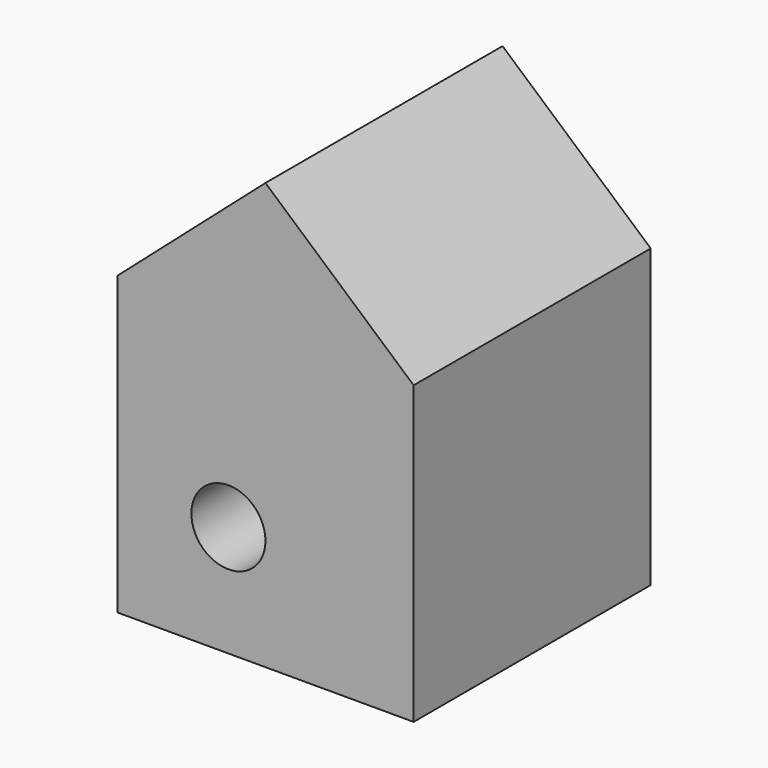
from build123d import *

# Parameters (mm, degrees)
F0_W     = 50.8
F0_H     = 50.8
F0_R     = 6.35
F1_DEPTH = 50.8


with BuildPart() as f1:
    # F0 (on Front) → F1 (new body)
    with BuildSketch(Plane.XZ):
        Rectangle(F0_W, F0_H)
        with Locations((-6.35, -6.35)):
            Circle(F0_R, mode=Mode.SUBTRACT)
        Polygon((0, 47.672484), (-25.4, 25.4), (25.4, 25.4), align=None)
    extrude(amount=F1_DEPTH)


solid = f1.part
